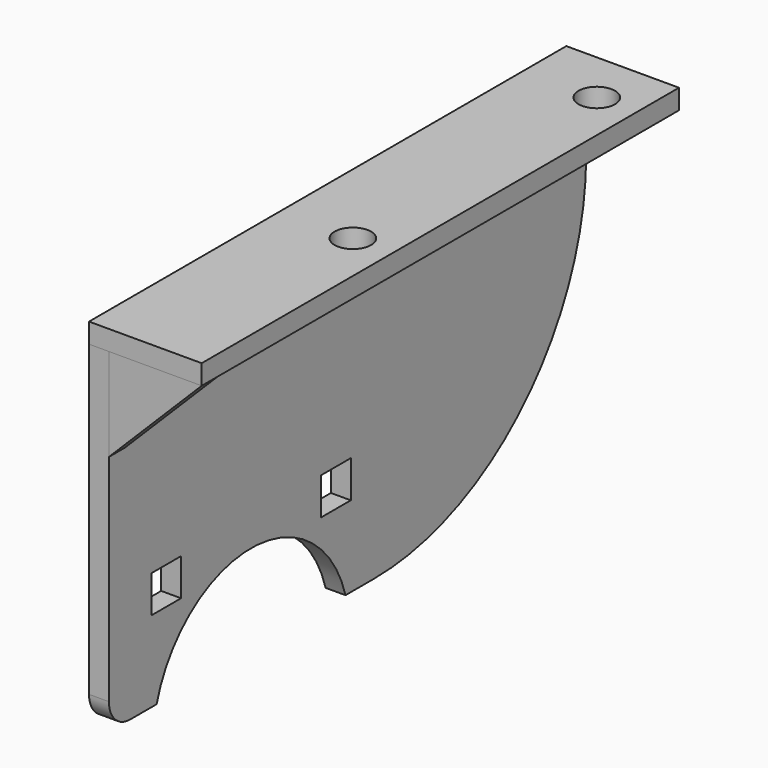
from build123d import *

# Parameters (mm, degrees)
F0_W     = 17.78
F0_H     = 17.78
F1_DEPTH = 9.525
F2_W     = 53.975
F2_H     = 285.75
F2_R     = 8.73125
F3_DEPTH = 9.525
F5_DEPTH = 9.525


with BuildPart() as f1:
    # F0 (on Right) → F1 (new body)
    with BuildSketch(Plane.YZ):
        with BuildLine():
            Line((0, 160.3375), (0, 12.7))
            ThreePointArc((0, 12.7), (3.719744, 3.719744), (12.7, 0))
            Line((12.7, 0), (28.575, 0))
            ThreePointArc((28.575, 0), (85.115921, 42.824672), (141.656843, 0))
            Line((141.656843, 0), (158.75, 0))
            ThreePointArc((158.75, 0), (248.552561, 37.197439), (285.75, 127))
            Line((285.75, 127), (285.75, 160.3375))
            Line((285.75, 160.3375), (0, 160.3375))
        make_face()
        with Locations((34.315921, 47.625)):
            Rectangle(F0_W, F0_H, mode=Mode.SUBTRACT)
        with Locations((135.915921, 47.625)):
            Rectangle(F0_W, F0_H, mode=Mode.SUBTRACT)
    extrude(amount=F1_DEPTH)


with BuildPart() as f3:
    # F2 (on face) → F3 (new body)
    with BuildSketch(Plane.XY.offset(160.3375)):
        with Locations((26.9875, 142.875)):
            Rectangle(F2_W, F2_H)
        with Locations((34.925, 114.3)):
            Circle(F2_R, mode=Mode.SUBTRACT)
        with Locations((34.925, 260.35)):
            Circle(F2_R, mode=Mode.SUBTRACT)
    extrude(amount=F3_DEPTH)


with BuildPart() as f5:
    # F4 (on face) → F5 (new body)
    with BuildSketch(Plane.XZ):
        Polygon((9.525, 160.3375), (9.525, 115.8875), (53.975, 160.3375), align=None)
    extrude(amount=-F5_DEPTH)


solid = Compound([f1.part, f3.part, f5.part])
